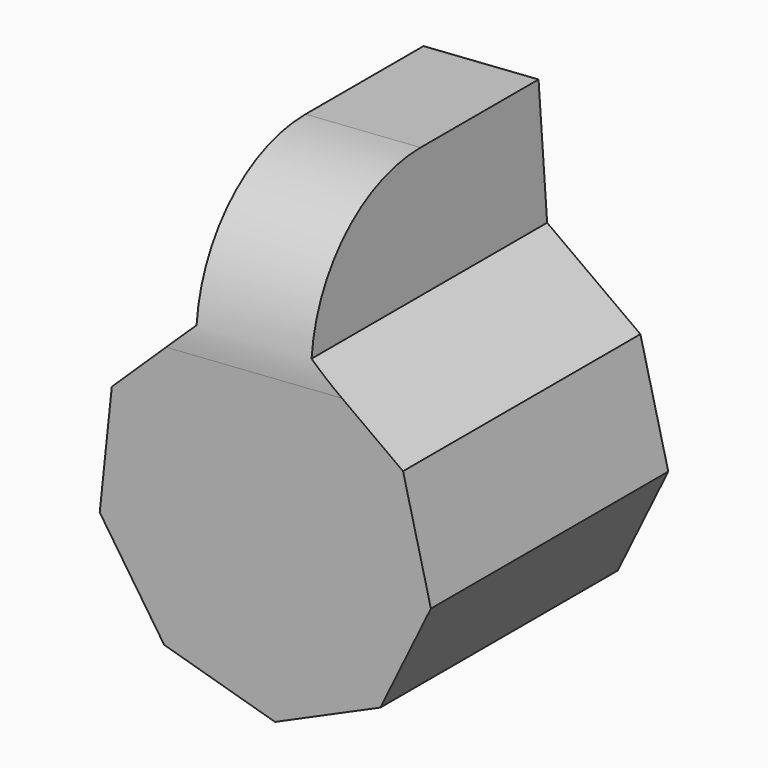
from build123d import *

# Parameters (mm, degrees)
F1_DEPTH = 60.96
F2_DEPTH = 25.4
F3_R     = 30.6605122421


with BuildPart() as f1:
    # F0 (on Front) → F1 (new body)
    with BuildSketch(Plane.XZ):
        Polygon((24.0515821646, -24.9158906195), (34.4402066399, -3.6266205457), (28.7138756682, 19.3595855869), (9.5520031521, 33.2872264655), (-14.0793577975, 31.6394041346), (-31.1228307591, 15.1871529763), (-33.6035853167, -8.371335846), (-20.3608488424, -28.0127835889), (2.4089550909, -34.5467385632), align=None)
    extrude(amount=F1_DEPTH)

    # F2 (add): a face of the model
    f2_faces = [f1.faces().sort_by_distance(p)[0] for p in [
        (-2.2636773227, -30.48, 32.4633153),
    ]]
    extrude(f2_faces, amount=F2_DEPTH)

    # F3
    f3_edges = [f1.edges().sort_by_distance(p)[0] for p in [
        (-4.030537, -60.96, 57.801788),
    ]]
    fillet(f3_edges, radius=F3_R)


solid = f1.part
